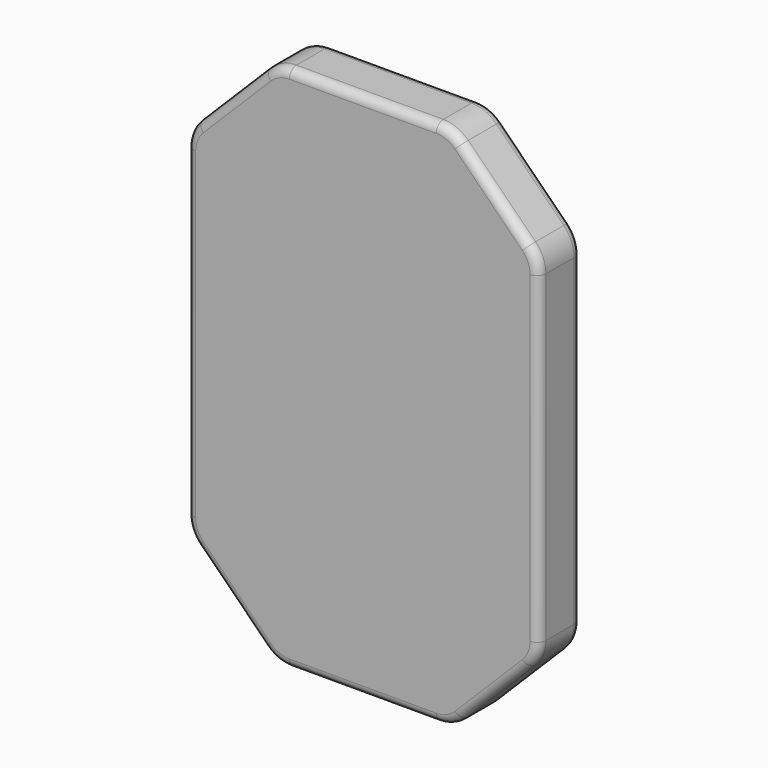
from build123d import *

# Parameters (mm, degrees)
F0_W     = 1
F0_H     = 3
F1_DEPTH = 0.3
F2_R     = 0.2
F3_R     = 0.05


with BuildPart() as f1:
    # F0 (on Front) → F1 (new body)
    with BuildSketch(Plane.XZ):
        Rectangle(F0_W, F0_H)
        Polygon((1, 1), (0.5, 1.5), (0.5, -1.5), (1, -1), align=None)
        Polygon((-0.5, -1.5), (-0.5, 1.5), (-1, 1), (-1, -1), align=None)
    extrude(amount=F1_DEPTH)

    # F2
    f2_edges = [f1.edges().sort_by_distance(p)[0] for p in [
        (0.5, -0.15, 1.5),
        (1, -0.15, 1),
        (-0.5, -0.15, 1.5),
        (-1, -0.15, 1),
        (-1, -0.15, -1),
        (-0.5, -0.15, -1.5),
        (0.5, -0.15, -1.5),
        (1, -0.15, -1),
    ]]
    fillet(f2_edges, radius=F2_R)

    # F3
    f3_edges = [f1.edges().sort_by_distance(p)[0] for p in [
        (1, 0, 0),
        (-1, -0.3, 0),
    ]]
    fillet(f3_edges, radius=F3_R)


solid = f1.part
